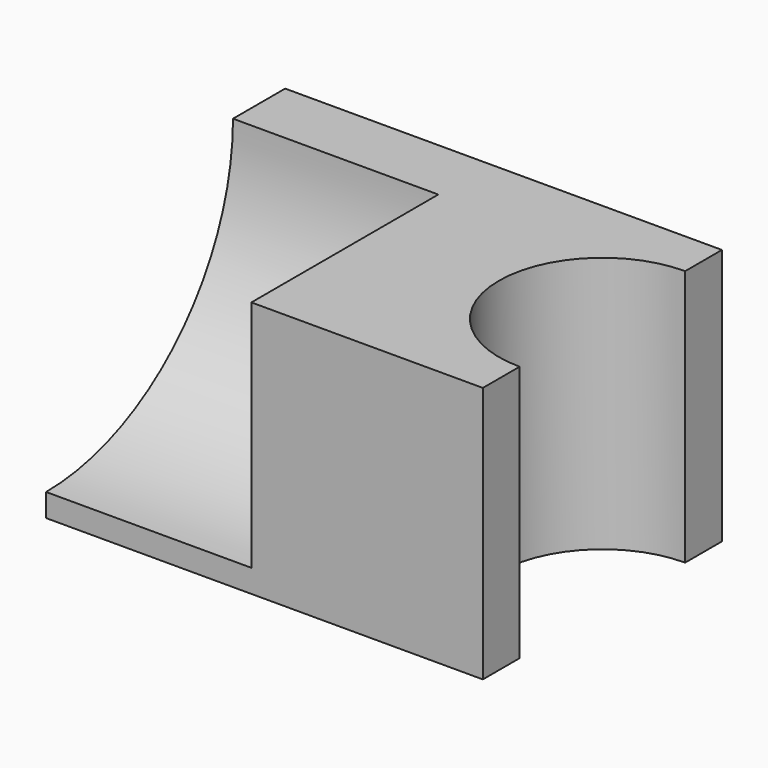
from build123d import *

# Parameters (mm, degrees)
F1_DEPTH = 63.5
F3_DEPTH = 50.8


with BuildPart() as f1:
    # F0 (on Top) → F1 (new body)
    with BuildSketch(Plane.XY):
        with BuildLine():
            Line((54.035187, 25.595617), (54.035187, 36.971446))
            Line((54.035187, 36.971446), (-54.035187, 36.971446))
            Line((-54.035187, 36.971446), (-54.035187, -36.971446))
            Line((-54.035187, -36.971446), (54.035187, -36.971446))
            Line((54.035187, -36.971446), (54.035187, -25.595617))
            ThreePointArc((54.035187, -25.595617), (28.43957, 0), (54.035187, 25.595617))
        make_face()
    extrude(amount=F1_DEPTH)

    # F2 (on face) → F3 (cut)
    with BuildSketch(Plane(origin=(-54.035187, 0, 0), x_dir=(0, -1, 0), z_dir=(-1, 0, 0))):
        with BuildLine():
            ThreePointArc((-20.840639, 63.5), (-3.907871, 22.620683), (36.971446, 5.687915))
            Line((36.971446, 5.687915), (36.971446, 63.5))
            Line((36.971446, 63.5), (-20.840639, 63.5))
        make_face()
    extrude(amount=-F3_DEPTH, mode=Mode.SUBTRACT)


solid = f1.part
